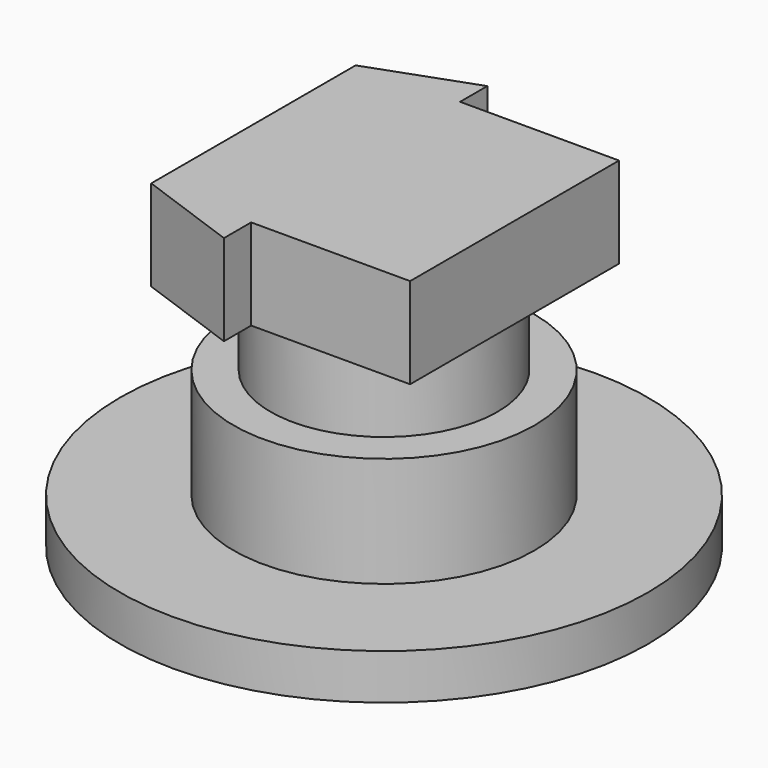
from build123d import *

# Parameters (mm, degrees)
F4_DEPTH = 2.032


with BuildPart() as f2:
    # F0 (on Front) → F2 (revolve)
    with BuildSketch(Plane.XZ):
        Polygon((2.54, 0), (0, 0), (0, -5.334), (5.9055, -5.334), (5.9055, -4.318), (3.3655, -4.318), (3.3655, -1.8542), (2.54, -1.8542), align=None)
    revolve(axis=Axis((0, 0, 5.04056), (0, 0, -1)))

    # F3 (on Top) → F4 (join)
    with BuildSketch(Plane.XY):
        Polygon((2.921, 2.921), (-0.635, 2.921), (-0.635, 3.683), (-2.921, 2.8575), (-2.921, -2.8575), (-0.635, -3.683), (-0.635, -2.921), (2.921, -2.921), align=None)
    extrude(amount=F4_DEPTH)


solid = f2.part
